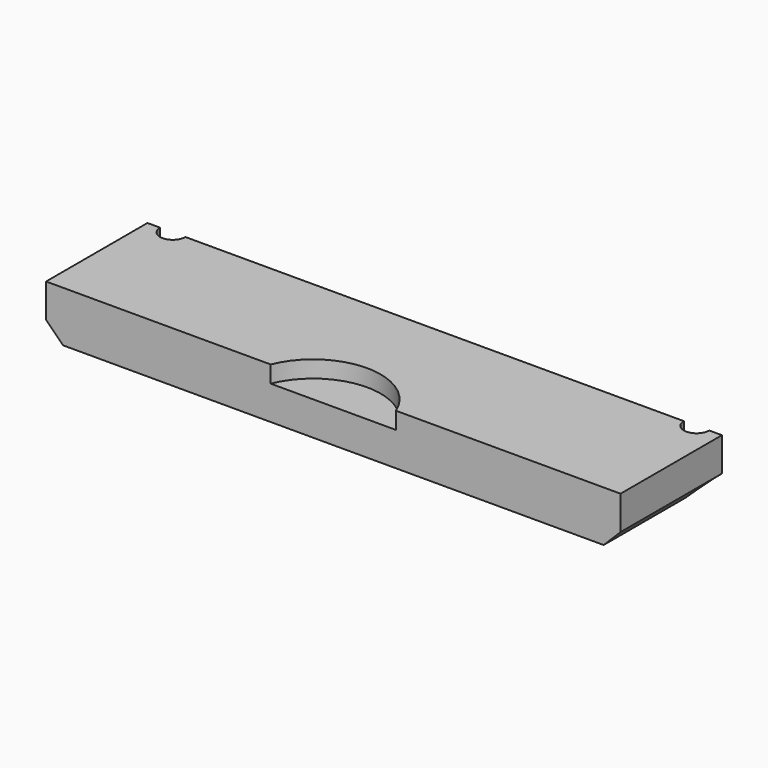
from build123d import *

# Parameters (mm, degrees)
CYLINDER1971_R               = 1.5
CYLINDER1971_DEPTH           = 50
CYLINDER1971_PLACEMENT_ANGLE = 45
CYLINDER1968_R               = 1.5
CYLINDER1968_DEPTH           = 50
CYLINDER1968_PLACEMENT_ANGLE = 45
CYLINDER1970_R               = 1.5
CYLINDER1970_DEPTH           = 50
CYLINDER1970_PLACEMENT_ANGLE = 45
CYLINDER1969_R               = 1.5
CYLINDER1969_DEPTH           = 50
CYLINDER1969_PLACEMENT_ANGLE = 45
CYLINDER1973_R               = 1.5
CYLINDER1973_DEPTH           = 50
CYLINDER1973_PLACEMENT_ANGLE = 45
CYLINDER1972_R               = 1.5
CYLINDER1972_DEPTH           = 50
CYLINDER1972_PLACEMENT_ANGLE = 45
CYLINDER1938_R               = 3
CYLINDER1938_DEPTH           = 3
CYLINDER1938_PLACEMENT_ANGLE = 45
CYLINDER1939_R               = 3
CYLINDER1939_DEPTH           = 3
CYLINDER1939_PLACEMENT_ANGLE = 45
CYLINDER1942_R               = 3
CYLINDER1942_DEPTH           = 3
CYLINDER1942_PLACEMENT_ANGLE = 45
CYLINDER1943_R               = 3
CYLINDER1943_DEPTH           = 3
CYLINDER1943_PLACEMENT_ANGLE = 45
CYLINDER1940_R               = 3
CYLINDER1940_DEPTH           = 3
CYLINDER1940_PLACEMENT_ANGLE = 45
CYLINDER1941_R               = 3
CYLINDER1941_DEPTH           = 3
CYLINDER1941_PLACEMENT_ANGLE = 45
CYLINDER1937_R               = 8
CYLINDER1937_DEPTH           = 6
BOX804_W                     = 68
BOX804_H                     = 15
BOX804_DEPTH                 = 6
CHAMFER066_SIZE              = 2


with BuildPart() as obj1:
    # Cylinder1971 → Cylinder1971 (new body)
    with BuildSketch(Plane.XY):
        Circle(CYLINDER1971_R)
    extrude(amount=CYLINDER1971_DEPTH)


with BuildPart() as obj1_1:
    # Cylinder1971 placement: moved
    add(obj1.part.moved(Location((20, 137, 0))).rotate(Axis((20, 137, 0), (0, 0, 1)), CYLINDER1971_PLACEMENT_ANGLE))


with BuildPart() as compound997:
    # Cylinder1968 → Cylinder1968 (new body)
    with BuildSketch(Plane.XY):
        Circle(CYLINDER1968_R)
    extrude(amount=CYLINDER1968_DEPTH)


with BuildPart() as compound997_1:
    # Cylinder1968 placement: moved
    add(compound997.part.moved(Location((-20, 137, 0))).rotate(Axis((-20, 137, 0), (0, 0, 1)), CYLINDER1968_PLACEMENT_ANGLE))

    # Compound997: union obj1
    add(obj1_1.part)


with BuildPart() as obj2:
    # Cylinder1970 → Cylinder1970 (new body)
    with BuildSketch(Plane.XY):
        Circle(CYLINDER1970_R)
    extrude(amount=CYLINDER1970_DEPTH)


with BuildPart() as obj2_1:
    # Cylinder1970 placement: moved
    add(obj2.part.moved(Location((31, 131, 0))).rotate(Axis((31, 131, 0), (0, 0, 1)), CYLINDER1970_PLACEMENT_ANGLE))


with BuildPart() as compound998:
    # Cylinder1969 → Cylinder1969 (new body)
    with BuildSketch(Plane.XY):
        Circle(CYLINDER1969_R)
    extrude(amount=CYLINDER1969_DEPTH)


with BuildPart() as compound998_1:
    # Cylinder1969 placement: moved
    add(compound998.part.moved(Location((-31, 131, 0))).rotate(Axis((-31, 131, 0), (0, 0, 1)), CYLINDER1969_PLACEMENT_ANGLE))

    # Compound998: union obj2
    add(obj2_1.part)


with BuildPart() as obj3:
    # Cylinder1973 → Cylinder1973 (new body)
    with BuildSketch(Plane.XY):
        Circle(CYLINDER1973_R)
    extrude(amount=CYLINDER1973_DEPTH)


with BuildPart() as obj3_1:
    # Cylinder1973 placement: moved
    add(obj3.part.moved(Location((31, 101, 0))).rotate(Axis((31, 101, 0), (0, 0, 1)), CYLINDER1973_PLACEMENT_ANGLE))


with BuildPart() as compound996:
    # Cylinder1972 → Cylinder1972 (new body)
    with BuildSketch(Plane.XY):
        Circle(CYLINDER1972_R)
    extrude(amount=CYLINDER1972_DEPTH)


with BuildPart() as compound996_1:
    # Cylinder1972 placement: moved
    add(compound996.part.moved(Location((-31, 101, 0))).rotate(Axis((-31, 101, 0), (0, 0, 1)), CYLINDER1972_PLACEMENT_ANGLE))

    # Compound995: union obj3
    add(obj3_1.part)

    # Compound996: union Compound997, Compound998
    add(compound997_1.part)
    add(compound998_1.part)


with BuildPart() as obj4:
    # Cylinder1938 → Cylinder1938 (new body)
    with BuildSketch(Plane.XY):
        Circle(CYLINDER1938_R)
    extrude(amount=CYLINDER1938_DEPTH)


with BuildPart() as obj4_1:
    # Cylinder1938 placement: moved
    add(obj4.part.moved(Location((31, 131, 0))).rotate(Axis((31, 131, 0), (0, 0, 1)), CYLINDER1938_PLACEMENT_ANGLE))


with BuildPart() as compound975:
    # Cylinder1939 → Cylinder1939 (new body)
    with BuildSketch(Plane.XY):
        Circle(CYLINDER1939_R)
    extrude(amount=CYLINDER1939_DEPTH)


with BuildPart() as compound975_1:
    # Cylinder1939 placement: moved
    add(compound975.part.moved(Location((-31, 131, 0))).rotate(Axis((-31, 131, 0), (0, 0, 1)), CYLINDER1939_PLACEMENT_ANGLE))

    # Compound975: union obj4
    add(obj4_1.part)


with BuildPart() as compound975_2:
    # Compound975 placement: moved
    add(compound975_1.part.moved(Location((0, 0, 25))))


with BuildPart() as obj5:
    # Cylinder1942 → Cylinder1942 (new body)
    with BuildSketch(Plane.XY):
        Circle(CYLINDER1942_R)
    extrude(amount=CYLINDER1942_DEPTH)


with BuildPart() as obj5_1:
    # Cylinder1942 placement: moved
    add(obj5.part.moved(Location((31, 101, 0))).rotate(Axis((31, 101, 0), (0, 0, 1)), CYLINDER1942_PLACEMENT_ANGLE))


with BuildPart() as compound976:
    # Cylinder1943 → Cylinder1943 (new body)
    with BuildSketch(Plane.XY):
        Circle(CYLINDER1943_R)
    extrude(amount=CYLINDER1943_DEPTH)


with BuildPart() as compound976_1:
    # Cylinder1943 placement: moved
    add(compound976.part.moved(Location((-31, 101, 0))).rotate(Axis((-31, 101, 0), (0, 0, 1)), CYLINDER1943_PLACEMENT_ANGLE))

    # Compound976: union obj5
    add(obj5_1.part)


with BuildPart() as compound976_2:
    # Compound976 placement: moved
    add(compound976_1.part.moved(Location((0, 0, 21))))


with BuildPart() as obj6:
    # Cylinder1940 → Cylinder1940 (new body)
    with BuildSketch(Plane.XY):
        Circle(CYLINDER1940_R)
    extrude(amount=CYLINDER1940_DEPTH)


with BuildPart() as obj6_1:
    # Cylinder1940 placement: moved
    add(obj6.part.moved(Location((20, 137, 0))).rotate(Axis((20, 137, 0), (0, 0, 1)), CYLINDER1940_PLACEMENT_ANGLE))


with BuildPart() as compound977:
    # Cylinder1941 → Cylinder1941 (new body)
    with BuildSketch(Plane.XY):
        Circle(CYLINDER1941_R)
    extrude(amount=CYLINDER1941_DEPTH)


with BuildPart() as compound977_1:
    # Cylinder1941 placement: moved
    add(compound977.part.moved(Location((-20, 137, 0))).rotate(Axis((-20, 137, 0), (0, 0, 1)), CYLINDER1941_PLACEMENT_ANGLE))

    # Compound974: union obj6
    add(obj6_1.part)


with BuildPart() as compound977_2:
    # Compound974 placement: moved
    add(compound977_1.part.moved(Location((0, 0, 25))))

    # Compound977: union Compound975, Compound976
    add(compound975_2.part)
    add(compound976_2.part)


with BuildPart() as obj7:
    # Cylinder1937 → Cylinder1937 (new body)
    with BuildSketch(Plane(origin=(0, 83, 25), x_dir=(1, 0, 0), z_dir=(0, 0, 1))):
        Circle(CYLINDER1937_R)
    extrude(amount=CYLINDER1937_DEPTH)


with BuildPart() as cut623:
    # Box804 → Box804 (new body)
    with BuildSketch(Plane(origin=(-34, 86, 21), x_dir=(1, 0, 0), z_dir=(0, 0, 1))):
        with Locations((34, 7.5)):
            Rectangle(BOX804_W, BOX804_H)
    extrude(amount=BOX804_DEPTH)

    # Cut617: cut obj7
    add(obj7.part, mode=Mode.SUBTRACT)

    # Cut618: cut Compound977
    add(compound977_2.part, mode=Mode.SUBTRACT)

    # Chamfer066
    chamfer066_edges = [cut623.edges().sort_by_distance(p)[0] for p in [
        (-34, 93.5, 21),
        (34, 93.5, 21),
    ]]
    chamfer(chamfer066_edges, length=CHAMFER066_SIZE)

    # Cut623: cut Compound996
    add(compound996_1.part, mode=Mode.SUBTRACT)


solid = cut623.part
